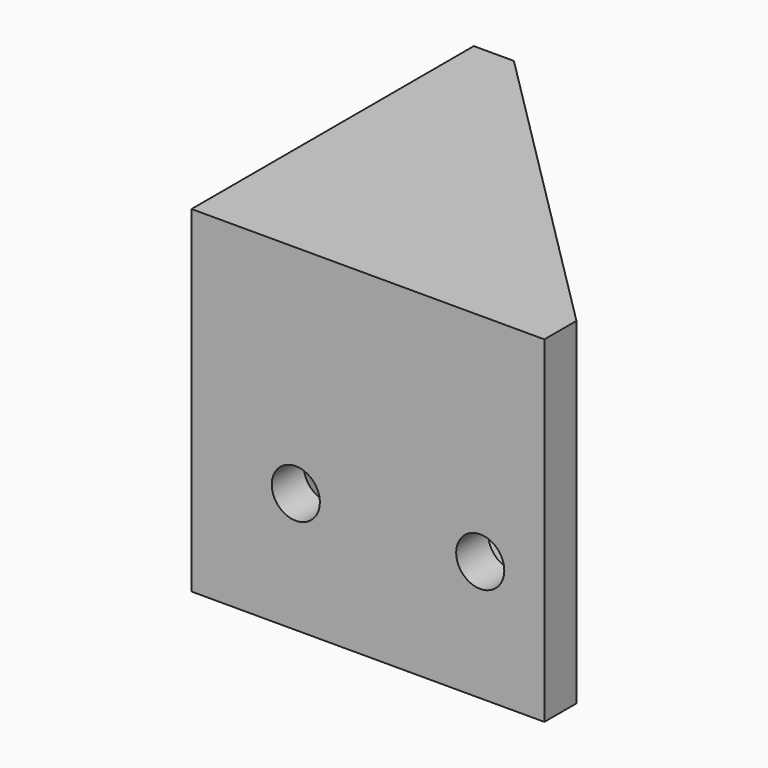
from build123d import *

# Parameters (mm, degrees)
SKETCH_W        = 44
SKETCH_H        = 42.000069
PAD_DEPTH       = 44
SKETCH001_W     = 39
SKETCH001_H     = 38.000069
POCKET_DEPTH    = 39
POCKET001_DEPTH = 42.001069
SKETCH003_R     = 1.5
SKETCH003_R_2   = 12
POCKET002_DEPTH = 44.001
SKETCH004_R     = 3
POCKET003_DEPTH = 5.001


with BuildPart() as part:
    # Sketch → Pad (new body)
    with BuildSketch(Plane.YZ):
        with Locations((22, 21.000034)):
            Rectangle(SKETCH_W, SKETCH_H)
    extrude(amount=PAD_DEPTH)

    # Sketch001 (on Face6 of Pad) → Pocket (cut)
    with BuildSketch(Plane.YZ.offset(44)):
        with Locations((24.5, 21.000034)):
            Rectangle(SKETCH001_W, SKETCH001_H)
    extrude(amount=-POCKET_DEPTH, mode=Mode.SUBTRACT)

    # Sketch002 (on Face6 of Pocket) → Pocket001 (cut, through all)
    with BuildSketch(Plane(origin=(0, 0, 42.000069), x_dir=(0, -1, 0), z_dir=(0, 0, 1))):
        Polygon((-44, 5), (-44, 44), (-5, 44), align=None)
    extrude(amount=-POCKET001_DEPTH, mode=Mode.SUBTRACT)

    # Sketch003 (on Face2 of Pocket001) → Pocket002 (cut, through all)
    with BuildSketch(Plane(origin=(0, 0, 0), x_dir=(0, 1, 0), z_dir=(-1, 0, 0))):
        with Locations((9, -5.500034)):
            Circle(SKETCH003_R)
        with Locations((40, -5.500034)):
            Circle(SKETCH003_R)
        with Locations((9, -36.500034)):
            Circle(SKETCH003_R)
        with Locations((40, -36.500034)):
            Circle(SKETCH003_R)
        with Locations((24.5, -21.000034)):
            Circle(SKETCH003_R_2)
    extrude(amount=-POCKET002_DEPTH, mode=Mode.SUBTRACT)

    # Sketch004 (on Face16 of Pocket002) → Pocket003 (cut, through all)
    with BuildSketch(Plane.ZX.offset(5)):
        with Locations((15, 36)):
            Circle(SKETCH004_R)
        with Locations((15, 13)):
            Circle(SKETCH004_R)
    extrude(amount=-POCKET003_DEPTH, mode=Mode.SUBTRACT)


solid = part.part
